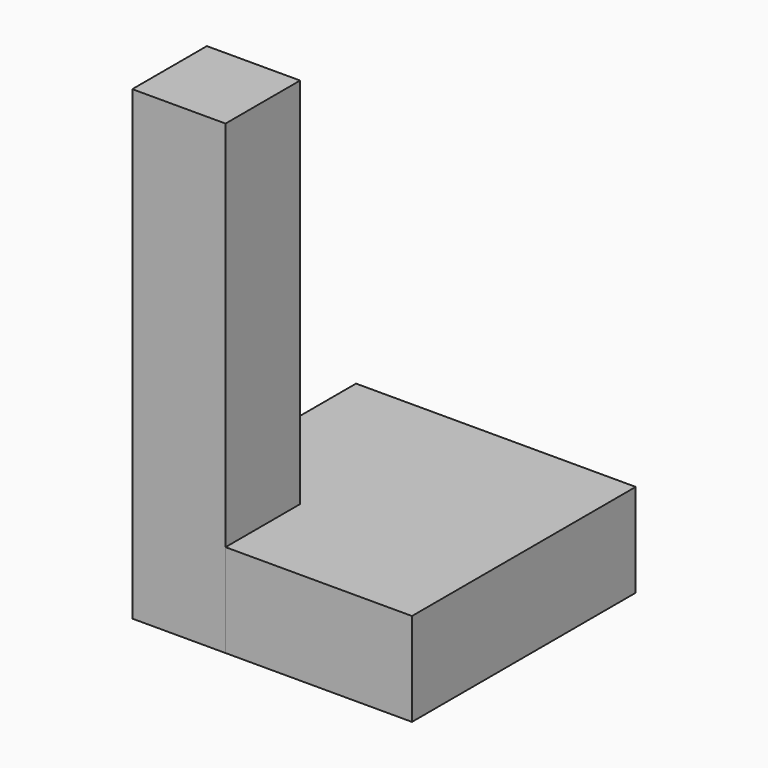
from build123d import *

# Parameters (mm, degrees)
BOX_W        = 30
BOX_H        = 30
BOX_DEPTH    = 10
BOX001_W     = 10
BOX001_H     = 10
BOX001_DEPTH = 50


with BuildPart() as basis:
    # Box → Box (new body)
    with BuildSketch(Plane.XY):
        with Locations((15, 15)):
            Rectangle(BOX_W, BOX_H)
    extrude(amount=BOX_DEPTH)


with BuildPart() as pillar:
    # Box001 → Box001 (new body)
    with BuildSketch(Plane.XY):
        with Locations((5, 5)):
            Rectangle(BOX001_W, BOX001_H)
    extrude(amount=BOX001_DEPTH)


solid = Compound([basis.part, pillar.part])
